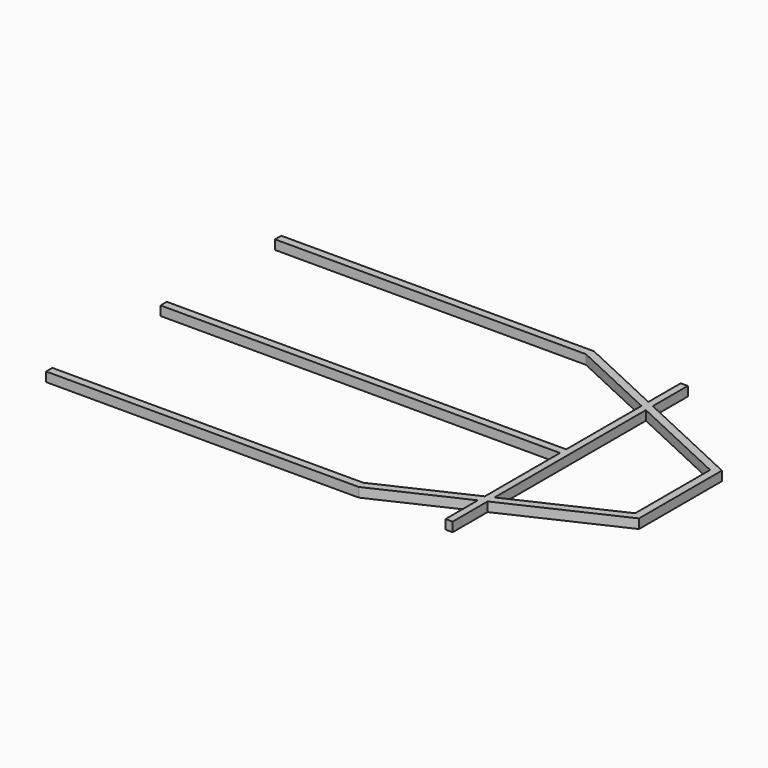
from build123d import *

# Parameters (mm, degrees)
F0_W     = 3244.3288277497
F0_H     = 63.5
F0_W_2   = 57.6711722503
F1_DEPTH = 76.2


with BuildPart() as f1:
    # F0 (on Top) → F1 (new body)
    with BuildSketch(Plane.XY):
        Polygon((1751.3658476959, 2163.8195076566), (-788.6341523041, 2163.8195076566), (-788.6341523041, 2100.3195076566), (1737.288236618, 2100.3195076566), (1751.3658476959, 2100.3195076566), align=None)
        Polygon((2455.6946754456, 1835.3855814176), (1751.3658476959, 2163.8195076566), (1751.3658476959, 2100.3195076566), (1737.288236618, 2100.3195076566), (2455.6946754456, 1765.3210835635), align=None)
        Polygon((2455.6946754456, 2163.8195076566), (2455.6946754456, 1835.3855814176), (2513.3658476959, 1808.4930721425), (2513.3658476959, 2163.8195076566), align=None)
        Polygon((2513.3658476959, 1808.4930721425), (2455.6946754456, 1835.3855814176), (2455.6946754456, 1765.3210835635), (2513.3658476959, 1738.4285742884), align=None)
        Polygon((3345.3215286285, 1420.5457668781), (2513.3658476959, 1808.4930721425), (2513.3658476959, 1738.4285742884), (3345.3215286285, 1350.4812690239), align=None)
        Polygon((2513.3658476959, 1738.4285742884), (2455.6946754456, 1765.3210835635), (2455.6946754456, 1001.7695076566), (2513.3658476959, 1001.7695076566), align=None)
        Polygon((3408.8215286285, 1390.9352305852), (3345.3215286285, 1420.5457668781), (3345.3215286285, 1350.4812690239), (3408.8215286285, 1320.8707327311), align=None)
        with Locations((833.5302615707, 970.0195076566)):
            Rectangle(F0_W, F0_H)
        with Locations((2484.5302615707, 970.0195076566)):
            Rectangle(F0_W_2, F0_H)
        Polygon((3408.8215286285, 1320.8707327311), (3345.3215286285, 1350.4812690239), (3345.3215286285, 589.5577462893), (3408.8215286285, 619.1682825821), align=None)
        Polygon((2513.3658476959, 938.2695076566), (2455.6946754456, 938.2695076566), (2455.6946754456, 174.7179317497), (2513.3658476959, 201.6104410248), align=None)
        Polygon((3345.3215286285, 519.4932484352), (3345.3215286285, 589.5577462893), (2513.3658476959, 201.6104410248), (2513.3658476959, 131.5459431707), align=None)
        Polygon((3408.8215286285, 619.1682825821), (3345.3215286285, 589.5577462893), (3345.3215286285, 519.4932484352), (3408.8215286285, 549.103784728), align=None)
        Polygon((2455.6946754456, 104.6534338956), (2455.6946754456, 174.7179317497), (1737.288236618, -160.2804923434), (1751.3658476959, -160.2804923434), (1751.3658476959, -223.7804923434), align=None)
        Polygon((2513.3658476959, 201.6104410248), (2455.6946754456, 174.7179317497), (2455.6946754456, 104.6534338956), (2513.3658476959, 131.5459431707), align=None)
        Polygon((1751.3658476959, -160.2804923434), (1737.288236618, -160.2804923434), (-788.6341523041, -160.2804923434), (-788.6341523041, -223.7804923434), (1751.3658476959, -223.7804923434), align=None)
        Polygon((2513.3658476959, 131.5459431707), (2455.6946754456, 104.6534338956), (2455.6946754456, -223.7804923434), (2513.3658476959, -223.7804923434), align=None)
    extrude(amount=F1_DEPTH)


solid = f1.part
